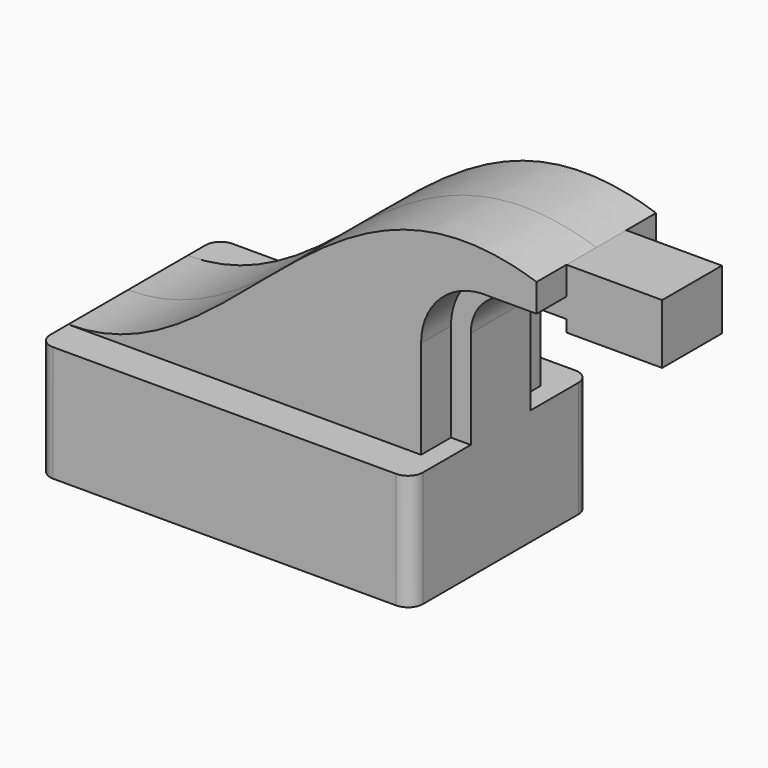
from build123d import *

# Parameters (mm, degrees)
F1_DEPTH = 38.1
F2_DEPTH = 25.4
F3_DEPTH = 12.7
F4_DEPTH = 12.7
F5_R     = 5.08


with BuildPart() as f1:
    # F0 (on Front) → F1 (new body, symmetric)
    with BuildSketch(Plane.XZ):
        Polygon((-63.397139, 19.704513), (-63.397139, -19.704513), (63.397139, -19.704513), (63.397139, 19.704513), (56.652256, 19.704513), align=None)
    extrude(amount=F1_DEPTH, both=True)

    # F0 (on Front) → F2 (join, symmetric)
    with BuildSketch(Plane.XZ):
        with BuildLine():
            add(Edge.make_bspline(
                [(-63.397139, 19.704513), (-5.140318, 19.704513), (22.56023, 108.517617), (95.952414, 84.243942)],
                knots=[0, 0, 0, 0, 171.923291, 171.923291, 171.923291, 171.923291], degree=3))
            Line((-63.397139, 19.704513), (56.652256, 19.704513))
            Line((56.652256, 19.704513), (56.652256, 53.116519))
            ThreePointArc((56.652256, 53.116519), (63.466087, 68.877623), (79.615708, 74.711181))
            Line((79.615708, 74.711181), (95.952414, 74.711181))
            Line((95.952414, 74.711181), (95.952414, 84.243942))
        make_face()
    extrude(amount=F2_DEPTH, both=True)

    # F0 (on Front) → F3 (join, symmetric)
    with BuildSketch(Plane.XZ):
        with BuildLine():
            Line((56.652256, 19.704513), (63.397139, 19.704513))
            Line((63.397139, 19.704513), (63.397139, 53.116519))
            ThreePointArc((63.397139, 53.116519), (68.1554, 64.028229), (79.389192, 67.966297))
            Line((79.389192, 67.966297), (95.952414, 67.966297))
            Line((95.952414, 67.966297), (95.952414, 74.711181))
            Line((95.952414, 74.711181), (79.615708, 74.711181))
            ThreePointArc((79.615708, 74.711181), (63.466087, 68.877623), (56.652256, 53.116519))
            Line((56.652256, 53.116519), (56.652256, 19.704513))
        make_face()
    extrude(amount=F3_DEPTH, both=True)

    # F0 (on Front) → F4 (join, symmetric)
    with BuildSketch(Plane.XZ):
        Polygon((128.507696, 84.243942), (95.952414, 84.243942), (95.952414, 74.711181), (95.952414, 67.966297), (95.952414, 63.923942), (128.507696, 63.923942), align=None)
    extrude(amount=F4_DEPTH, both=True)

    # F5
    f5_edges = [f1.edges().sort_by_distance(p)[0] for p in [
        (-63.397139, -38.1, 0),
        (63.397139, -38.1, 0),
        (63.397139, 38.1, 0),
        (-63.397139, 38.1, 0),
    ]]
    fillet(f5_edges, radius=F5_R)


solid = f1.part
